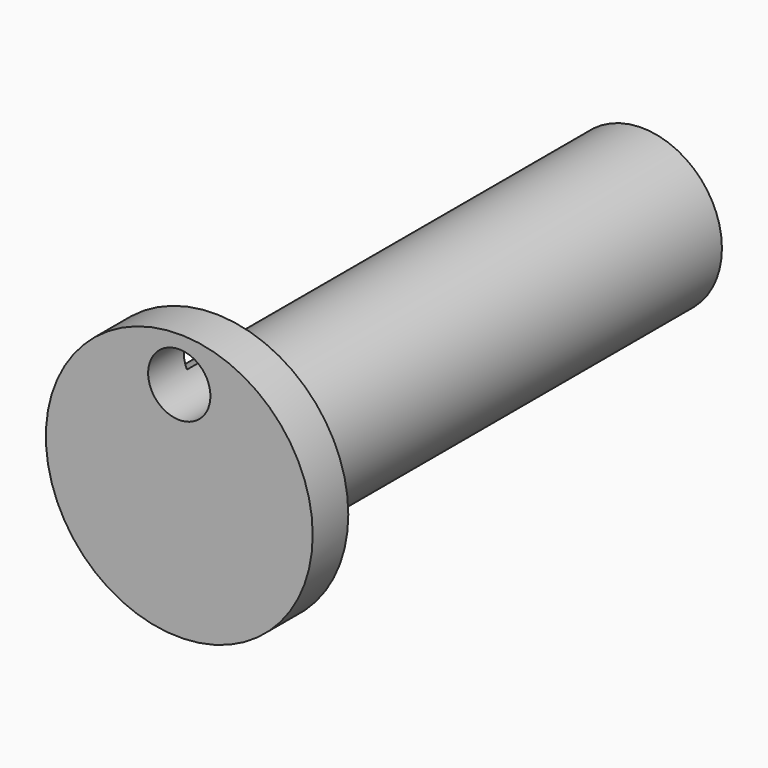
from build123d import *

# Parameters (mm, degrees)
F0_R     = 9
F1_DEPTH = 60
F2_R     = 15
F2_R_2   = 9
F3_DEPTH = 5
F4_R     = 3.5
F5_DEPTH = 10


with BuildPart() as f1:
    # F0 (on Front) → F1 (new body)
    with BuildSketch(Plane.XZ):
        Circle(F0_R)
    extrude(amount=F1_DEPTH)

    # F2 (on face) → F3 (join)
    with BuildSketch(Plane.XZ.offset(60)):
        Circle(F2_R)
        Circle(F2_R_2, mode=Mode.SUBTRACT)
        Circle(F2_R_2)
    extrude(amount=F3_DEPTH)

    # F4 (on face) → F5 (cut)
    with BuildSketch(Plane.XZ.offset(65)):
        with Locations((0, 10)):
            Circle(F4_R)
    extrude(amount=-F5_DEPTH, mode=Mode.SUBTRACT)


solid = f1.part
